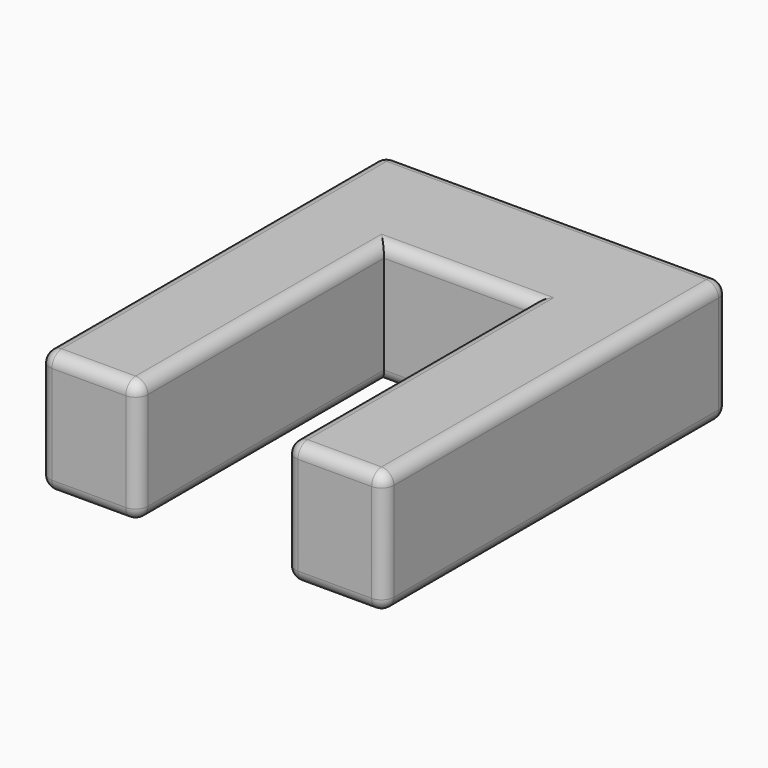
from build123d import *

# Parameters (mm, degrees)
F1_DEPTH = 12.7
F2_R     = 1.27


with BuildPart() as f1:
    # F0 (on Top) → F1 (new body)
    with BuildSketch(Plane.XY):
        Polygon((0, 2.813931), (0, 15.513931), (-17.78, 15.513931), (-17.78, -28.936069), (-7.62, -28.936069), (-7.62, 2.813931), align=None)
        Polygon((17.78, 15.513931), (0, 15.513931), (0, 2.813931), (7.62, 2.813931), (7.62, -28.936069), (17.78, -28.936069), align=None)
    extrude(amount=F1_DEPTH)

    # F2
    f2_edges = [f1.edges().sort_by_distance(p)[0] for p in [
        (-17.78, -6.711069, 12.7),
        (0, 2.813931, 12.7),
        (7.62, -13.061069, 12.7),
        (12.7, -28.936069, 12.7),
        (17.78, -6.711069, 12.7),
        (0, 15.513931, 12.7),
        (-12.7, -28.936069, 12.7),
        (-7.62, -13.061069, 12.7),
        (0, 2.813931, 0),
        (7.62, -13.061069, 0),
        (12.7, -28.936069, 0),
        (17.78, -6.711069, 0),
        (0, 15.513931, 0),
        (-17.78, -6.711069, 0),
        (-12.7, -28.936069, 0),
        (-7.62, -13.061069, 0),
        (17.78, -28.936069, 6.35),
        (7.62, -28.936069, 6.35),
        (-7.62, -28.936069, 6.35),
        (-17.78, -28.936069, 6.35),
        (-17.78, 15.513931, 6.35),
        (17.78, 15.513931, 6.35),
    ]]
    fillet(f2_edges, radius=F2_R)


solid = f1.part
